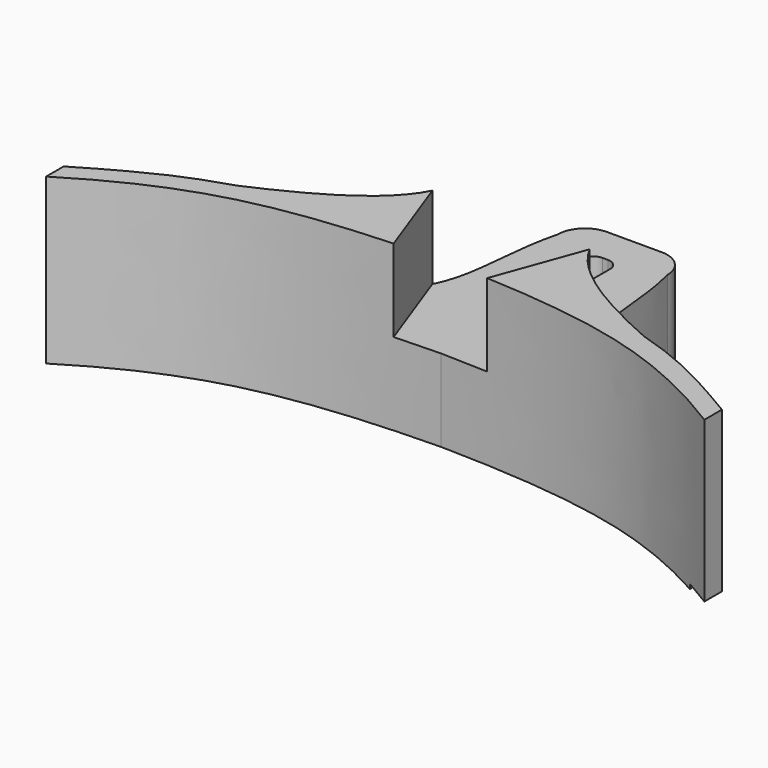
from build123d import *

# Parameters (mm, degrees)
F1_DEPTH = 30
F3_DEPTH = 15
F5_DEPTH = 15
F6_W     = 5
F6_H     = 0.8216293063
F7_DEPTH = 19.0451266038


with BuildPart() as f1:
    # F0 (on Top) → F1 (new body)
    with BuildSketch(Plane.XY):
        with BuildLine():
            add(Edge.make_bspline(
                [(37.1067872729, -4.2723893299), (43.8225328786, -6.3263470576), (48.8563328981, -8.3856321871), (60, -15.0441265038)],
                knots=[0.5101508663, 0.5101508663, 0.5101508663, 0.5101508663, 1, 1, 1, 1], degree=3))
            add(Edge.make_bspline(
                [(10, 35), (12.5087825336, 25.2597781502), (9.2883909053, 8.4522198534), (30.3742546348, -1.2643312428), (37.1067872729, -4.2723893299)],
                knots=[0, 0, 0, 0, 0.494664071, 1, 1, 1, 1], degree=3))
            ThreePointArc((10, 35), (8.5355339059, 38.5355339059), (5, 40))
            Line((5, 40), (0, 40))
            Line((0, 40), (-5, 40))
            ThreePointArc((-5, 40), (-8.5355339059, 38.5355339059), (-10, 35))
            add(Edge.make_bspline(
                [(-10, 35), (-12.5087825336, 25.2597781502), (-9.2883909053, 8.4522198534), (-30.3742546348, -1.2643312428), (-37.1067872729, -4.2723893299)],
                knots=[0, 0, 0, 0, 0.494664071, 1, 1, 1, 1], degree=3))
            add(Edge.make_bspline(
                [(-37.1067872729, -4.2723893299), (-43.8225328786, -6.3263470576), (-48.8563328981, -8.3856321871), (-60, -15.0441265038)],
                knots=[0.5101508663, 0.5101508663, 0.5101508663, 0.5101508663, 1, 1, 1, 1], degree=3))
            Line((-60, -15.0441265038), (-60, -19.0441265038))
            add(Edge.make_bspline(
                [(-60, -19.0441265038), (-52.8339832092, -14.5790806997), (-35.6940193818, -5.9067861207), (-13.0268717706, -4.2301601805), (0, -4)],
                knots=[0, 0, 0, 0, 0.4618585351, 1, 1, 1, 1], degree=3))
            add(Edge.make_bspline(
                [(60, -19.0441265038), (52.8339832092, -14.5790806997), (35.6940193818, -5.9067861207), (13.0268717706, -4.2301601805), (0, -4)],
                knots=[0, 0, 0, 0, 0.4618585351, 1, 1, 1, 1], degree=3))
            Line((60, -19.0441265038), (60, -15.0441265038))
        make_face()
    extrude(amount=F1_DEPTH)

    # F2 (on face) → F3 (cut)
    with BuildSketch(Plane.XY.offset(30)):
        Polygon((15, 40), (-15, 40), (-15, 13.6816753075), (-6.9741668392, -8.3691200741), (7.0873022438, -8.3691200741), (15, 13.3708383381), align=None)
    extrude(amount=-F3_DEPTH, mode=Mode.SUBTRACT)

    # F4 (on face) → F5 (cut, through all)
    with BuildSketch(Plane.XY.offset(15)):
        with BuildLine():
            Line((0.5, 33.355844829), (-0.5, 33.355844829))
            ThreePointArc((-0.5, 33.355844829), (-1.9142135624, 32.7700583913), (-2.5, 31.355844829))
            Line((-2.5, 31.355844829), (-2.5, 11.5851387382))
            Line((-2.5, 11.5851387382), (2.5, 11.5851387382))
            Line((2.5, 11.5851387382), (2.5, 31.355844829))
            ThreePointArc((2.5, 31.355844829), (1.9142135624, 32.7700583913), (0.5, 33.355844829))
        make_face()
    extrude(amount=-F5_DEPTH, mode=Mode.SUBTRACT)

    # F6 (on Front) → F7 (cut, through all)
    with BuildSketch(Plane.XZ):
        with Locations((57.5, 0.4108146532)):
            Rectangle(F6_W, F6_H)
    extrude(amount=F7_DEPTH, mode=Mode.SUBTRACT)


solid = f1.part
